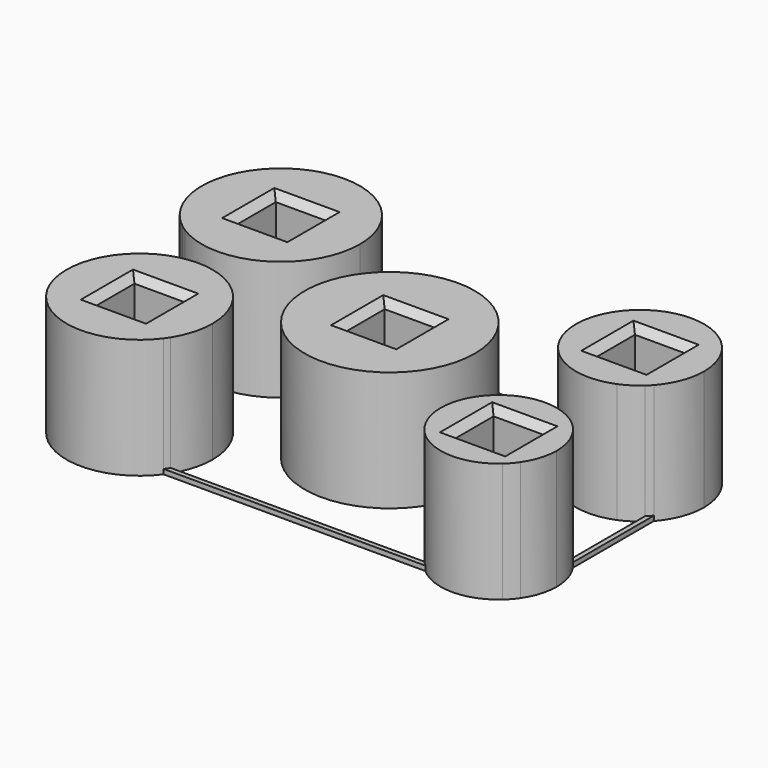
from build123d import *

# Parameters (mm, degrees)
F0_W      = 4.25
F0_H      = 4.25
F1_DEPTH  = 10
F0_R      = 7.1
F2_SIZE   = 0.6
F2_2_SIZE = 0.6
F2_3_SIZE = 0.6
F2_4_SIZE = 0.6
F2_5_SIZE = 0.6
F3_SIZE   = 0.6
F3_2_SIZE = 0.6
F3_3_SIZE = 0.6
F3_4_SIZE = 0.6
F3_5_SIZE = 0.6
F4_DEPTH  = 0.4


with BuildPart() as f1:
    # F0 (on Top) → F1 (new body)
    with BuildSketch(Plane.XY):
        with BuildLine():
            ThreePointArc((19, -4.6352761092), (18.8084555729, -4.3749675743), (18.6, -4.1279937396))
            Line((18.6, -4.1279937396), (18.6, -10.6))
            Line((18.6, -10.6), (11.374924048, -10.6))
            ThreePointArc((11.374924048, -10.6), (11.5688997014, -10.8058284412), (11.7745433424, -11))
            Line((11.7745433424, -11), (18.2254566576, -11))
            ThreePointArc((18.2254566576, -11), (18.6393808679, -10.5838332395), (19, -10.12071137))
            Line((19, -10.12071137), (19, -4.6352761092))
        make_face()
        with BuildLine():
            Line((18.2254566576, -11), (11.7745433424, -11))
            ThreePointArc((11.7745433424, -11), (15, -12.2279937396), (18.2254566576, -11))
        make_face()
        with BuildLine():
            ThreePointArc((19.85, -7.3779937396), (19.6326288433, -5.9422883381), (19, -4.6352761092))
            Line((19, -4.6352761092), (19, -10.12071137))
            ThreePointArc((19, -10.12071137), (19.6326288433, -8.8136991412), (19.85, -7.3779937396))
        make_face()
        with BuildLine():
            Line((18.6, -10.6), (18.6, -4.1279937396))
            ThreePointArc((18.6, -4.1279937396), (11.7639725806, -3.7654286481), (11.374924048, -10.6))
            Line((11.374924048, -10.6), (18.6, -10.6))
        make_face()
        with Locations((15, -7.3779937396)):
            Rectangle(F0_W, F0_H, mode=Mode.SUBTRACT)
    extrude(amount=F1_DEPTH)

    # F2#2
    f2_2_edges = [f1.edges().sort_by_distance(p)[0] for p in [
        (12.875, -7.377994, 10),
        (15, -5.252994, 10),
        (17.125, -7.377994, 10),
        (15, -9.502994, 10),
    ]]
    chamfer(f2_2_edges, length=F2_2_SIZE)

    # F3#5
    f3_5_edges = [f1.edges().sort_by_distance(p)[0] for p in [
        (12.875, -7.377994, 0),
        (15, -9.502994, 0),
        (17.125, -7.377994, 0),
        (15, -5.252994, 0),
    ]]
    chamfer(f3_5_edges, length=F3_5_SIZE)


with BuildPart() as f1b:
    # F0 (on Top) → F1, piece 2 (new body)
    with BuildSketch(Plane.XY):
        with BuildLine():
            Line((-18.6, 10.6), (-9.2399066277, 10.6))
            ThreePointArc((-9.2399066277, 10.6), (-9.357736165, 10.8021518575), (-9.4826572836, 11))
            Line((-9.4826572836, 11), (-19, 11))
            Line((-19, 11), (-19, 2.1282318403))
            ThreePointArc((-19, 2.1282318403), (-18.8026143682, 1.9835406657), (-18.6, 1.8462670652))
            Line((-18.6, 1.8462670652), (-18.6, 10.6))
        make_face()
        with BuildLine():
            Line((-19, 11), (-9.4826572836, 11))
            ThreePointArc((-9.4826572836, 11), (-19.5002944126, 12.2057623961), (-19, 2.1282318403))
            Line((-19, 2.1282318403), (-19, 11))
        make_face()
        with BuildLine():
            ThreePointArc((-18.6, 1.8462670652), (-11.8535734555, 1.5762698579), (-8.4, 7.3779937396))
            ThreePointArc((-8.4, 7.3779937396), (-8.6134275132, 9.0428336332), (-9.2399066277, 10.6))
            Line((-9.2399066277, 10.6), (-18.6, 10.6))
            Line((-18.6, 10.6), (-18.6, 1.8462670652))
        make_face()
        with Locations((-15, 7.3779937396)):
            Rectangle(F0_W, F0_H, mode=Mode.SUBTRACT)
    extrude(amount=F1_DEPTH)

    # F2#5
    f2_5_edges = [f1b.edges().sort_by_distance(p)[0] for p in [
        (-17.125, 7.377994, 10),
        (-15, 5.252994, 10),
        (-12.875, 7.377994, 10),
        (-15, 9.502994, 10),
    ]]
    chamfer(f2_5_edges, length=F2_5_SIZE)

    # F3
    f3_edges = [f1b.edges().sort_by_distance(p)[0] for p in [
        (-15, 5.252994, 0),
        (-17.125, 7.377994, 0),
        (-15, 9.502994, 0),
        (-12.875, 7.377994, 0),
    ]]
    chamfer(f3_edges, length=F3_SIZE)


with BuildPart() as f1c:
    # F0 (on Top) → F1, piece 3 (new body)
    with BuildSketch(Plane.XY):
        with BuildLine():
            Line((-18.6, -10.6), (-18.6, -2.4535648387))
            ThreePointArc((-18.6, -2.4535648387), (-18.8033458722, -2.6088680151), (-19, -2.7725621638))
            Line((-19, -2.7725621638), (-19, -11))
            Line((-19, -11), (-10.0917344561, -11))
            ThreePointArc((-10.0917344561, -11), (-9.9520833938, -10.8026890454), (-9.8203595049, -10.6))
            Line((-9.8203595049, -10.6), (-18.6, -10.6))
        make_face()
        with BuildLine():
            ThreePointArc((-8.9, -7.3779937396), (-12.2386597457, -1.9387842382), (-18.6, -2.4535648387))
            Line((-18.6, -2.4535648387), (-18.6, -10.6))
            Line((-18.6, -10.6), (-9.8203595049, -10.6))
            ThreePointArc((-9.8203595049, -10.6), (-9.1346011636, -9.0534329328), (-8.9, -7.3779937396))
        make_face()
        with Locations((-15, -7.3779937396)):
            Rectangle(F0_W, F0_H, mode=Mode.SUBTRACT)
        with BuildLine():
            Line((-19, -11), (-19, -2.7725621638))
            ThreePointArc((-19, -2.7725621638), (-19.1387099333, -11.8591855552), (-10.0917344561, -11))
            Line((-10.0917344561, -11), (-19, -11))
        make_face()
    extrude(amount=F1_DEPTH)

    # F2#4
    f2_4_edges = [f1c.edges().sort_by_distance(p)[0] for p in [
        (-17.125, -7.377994, 10),
        (-15, -9.502994, 10),
        (-15, -5.252994, 10),
        (-12.875, -7.377994, 10),
    ]]
    chamfer(f2_4_edges, length=F2_4_SIZE)

    # F3#2
    f3_2_edges = [f1c.edges().sort_by_distance(p)[0] for p in [
        (-17.125, -7.377994, 0),
        (-15, -9.502994, 0),
        (-12.875, -7.377994, 0),
        (-15, -5.252994, 0),
    ]]
    chamfer(f3_2_edges, length=F3_2_SIZE)


with BuildPart() as f1d:
    # F0 (on Top) → F1, piece 4 (new body)
    with BuildSketch(Plane.XY):
        Circle(F0_R)
        Rectangle(F0_W, F0_H, mode=Mode.SUBTRACT)
    extrude(amount=F1_DEPTH)

    # F2
    f2_edges = [f1d.edges().sort_by_distance(p)[0] for p in [
        (-2.125, 0, 10),
        (0, -2.125, 10),
        (0, 2.125, 10),
        (2.125, 0, 10),
    ]]
    chamfer(f2_edges, length=F2_SIZE)

    # F3#3
    f3_3_edges = [f1d.edges().sort_by_distance(p)[0] for p in [
        (-2.125, 0, 0),
        (0, -2.125, 0),
        (2.125, 0, 0),
        (0, 2.125, 0),
    ]]
    chamfer(f3_3_edges, length=F3_3_SIZE)


with BuildPart() as f1e:
    # F0 (on Top) → F1, piece 5 (new body)
    with BuildSketch(Plane.XY):
        with BuildLine():
            ThreePointArc((11.0625426161, 11), (10.890916688, 10.8040606297), (10.7290310633, 10.6))
            Line((10.7290310633, 10.6), (18.6, 10.6))
            Line((18.6, 10.6), (18.6, 3.4204060906))
            ThreePointArc((18.6, 3.4204060906), (18.8053856658, 3.6174698487), (19, 3.8251779549))
            Line((19, 3.8251779549), (19, 10.9308095243))
            ThreePointArc((19, 10.9308095243), (18.9688794717, 10.9655410549), (18.9374573839, 11))
            Line((18.9374573839, 11), (11.0625426161, 11))
        make_face()
        with BuildLine():
            ThreePointArc((20.35, 7.3779937396), (20.0011248735, 9.2783226585), (19, 10.9308095243))
            Line((19, 10.9308095243), (19, 3.8251779549))
            ThreePointArc((19, 3.8251779549), (20.0011248735, 5.4776648207), (20.35, 7.3779937396))
        make_face()
        with BuildLine():
            ThreePointArc((18.9374573839, 11), (15, 12.7279937396), (11.0625426161, 11))
            Line((11.0625426161, 11), (18.9374573839, 11))
        make_face()
        with BuildLine():
            Line((18.6, 10.6), (10.7290310633, 10.6))
            ThreePointArc((10.7290310633, 10.6), (10.7601343704, 4.1151668298), (17.020722548, 2.4242900359))
            ThreePointArc((17.020722548, 2.4242900359), (17.8541535153, 2.8529183026), (18.6, 3.4204060906))
            Line((18.6, 3.4204060906), (18.6, 10.6))
        make_face()
        Polygon((17.125, 5.2529937396), (17.020722548, 5.2529937396), (12.875, 5.2529937396), (12.875, 9.5029937396), (17.125, 9.5029937396), align=None, mode=Mode.SUBTRACT)
    extrude(amount=F1_DEPTH)

    # F2#3
    f2_3_edges = [f1e.edges().sort_by_distance(p)[0] for p in [
        (12.875, 7.377994, 10),
        (15, 9.502994, 10),
        (15, 5.252994, 10),
        (17.125, 7.377994, 10),
    ]]
    chamfer(f2_3_edges, length=F2_3_SIZE)

    # F3#4
    f3_4_edges = [f1e.edges().sort_by_distance(p)[0] for p in [
        (12.875, 7.377994, 0),
        (15, 5.252994, 0),
        (17.125, 7.377994, 0),
        (15, 9.502994, 0),
    ]]
    chamfer(f3_4_edges, length=F3_4_SIZE)


with BuildPart() as f4:
    # F0 (on Top) → F4 (new body)
    with BuildSketch(Plane.XY):
        with BuildLine():
            Line((-18.6, -2.4535648387), (-18.6, 1.8462670652))
            ThreePointArc((-18.6, 1.8462670652), (-18.8026143682, 1.9835406657), (-19, 2.1282318403))
            Line((-19, 2.1282318403), (-19, -2.7725621638))
            ThreePointArc((-19, -2.7725621638), (-18.8033458722, -2.6088680151), (-18.6, -2.4535648387))
        make_face()
    extrude(amount=F4_DEPTH)


with BuildPart() as f4b:
    # F0 (on Top) → F4, piece 2 (new body)
    with BuildSketch(Plane.XY):
        with BuildLine():
            ThreePointArc((-9.8203595049, -10.6), (-9.9520833938, -10.8026890454), (-10.0917344561, -11))
            Line((-10.0917344561, -11), (11.7745433424, -11))
            ThreePointArc((11.7745433424, -11), (11.5688997014, -10.8058284412), (11.374924048, -10.6))
            Line((11.374924048, -10.6), (-9.8203595049, -10.6))
        make_face()
    extrude(amount=F4_DEPTH)


with BuildPart() as f4c:
    # F0 (on Top) → F4, piece 3 (new body)
    with BuildSketch(Plane.XY):
        with BuildLine():
            ThreePointArc((19, 3.8251779549), (18.8053856658, 3.6174698487), (18.6, 3.4204060906))
            Line((18.6, 3.4204060906), (18.6, -4.1279937396))
            ThreePointArc((18.6, -4.1279937396), (18.8084555729, -4.3749675743), (19, -4.6352761092))
            Line((19, -4.6352761092), (19, 3.8251779549))
        make_face()
    extrude(amount=F4_DEPTH)


with BuildPart() as f4d:
    # F0 (on Top) → F4, piece 4 (new body)
    with BuildSketch(Plane.XY):
        with BuildLine():
            ThreePointArc((-9.4826572836, 11), (-9.357736165, 10.8021518575), (-9.2399066277, 10.6))
            Line((-9.2399066277, 10.6), (10.7290310633, 10.6))
            ThreePointArc((10.7290310633, 10.6), (10.890916688, 10.8040606297), (11.0625426161, 11))
            Line((11.0625426161, 11), (-9.4826572836, 11))
        make_face()
    extrude(amount=F4_DEPTH)


solid = Compound([f1.part, f1b.part, f1c.part, f1d.part, f1e.part, f4.part, f4b.part, f4c.part, f4d.part])
